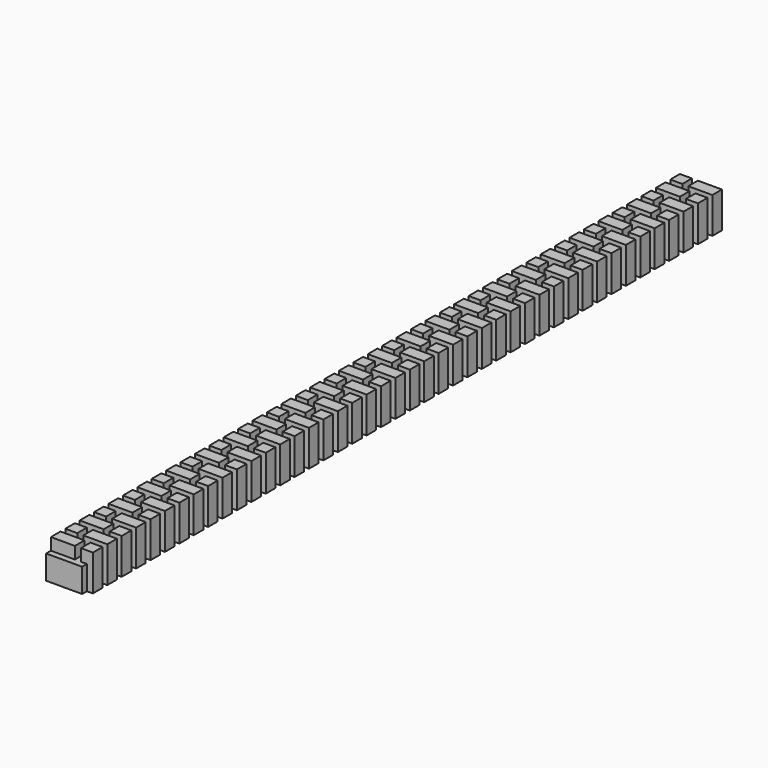
from build123d import *

# Parameters (mm, degrees)
SKETCH001_W      = 0.5
SKETCH001_H      = 0.5
SKETCH001_W_2    = 1
PAD001_DEPTH     = 1.5
ARRAY001_Y_COUNT = 22
ARRAY001_Y_PITCH = 1.5
SKETCH_W         = 1.5
SKETCH_H         = 33
PAD_DEPTH        = 1


with BuildPart() as part:
    # Sketch001 → Pad001 (new body)
    with BuildSketch(Plane.XY.offset(1)):
        with Locations((-0.25, 0.5)):
            Rectangle(SKETCH001_W, SKETCH001_H)
        with Locations((-1.25, 0.5)):
            Rectangle(SKETCH001_W_2, SKETCH001_H)
        with Locations((-0.5, 1.25)):
            Rectangle(SKETCH001_W_2, SKETCH001_H)
        with Locations((-1.5, 1.25)):
            Rectangle(SKETCH001_W, SKETCH001_H)
    extrude(amount=PAD001_DEPTH)

    # Array001 Y: part ×22


with BuildPart() as part_1:
    add(part.part)
    with Locations(*[(0, i * ARRAY001_Y_PITCH, 0) for i in range(1, ARRAY001_Y_COUNT)]):
        add(part.part)

    # Sketch → Pad (new body)
    with BuildSketch(Plane(origin=(0, 0, 1), x_dir=(1, 0, 0), z_dir=(0, 0, -1))):
        with Locations((-1, -16.5)):
            Rectangle(SKETCH_W, SKETCH_H)
    extrude(amount=-PAD_DEPTH)


solid = part_1.part
